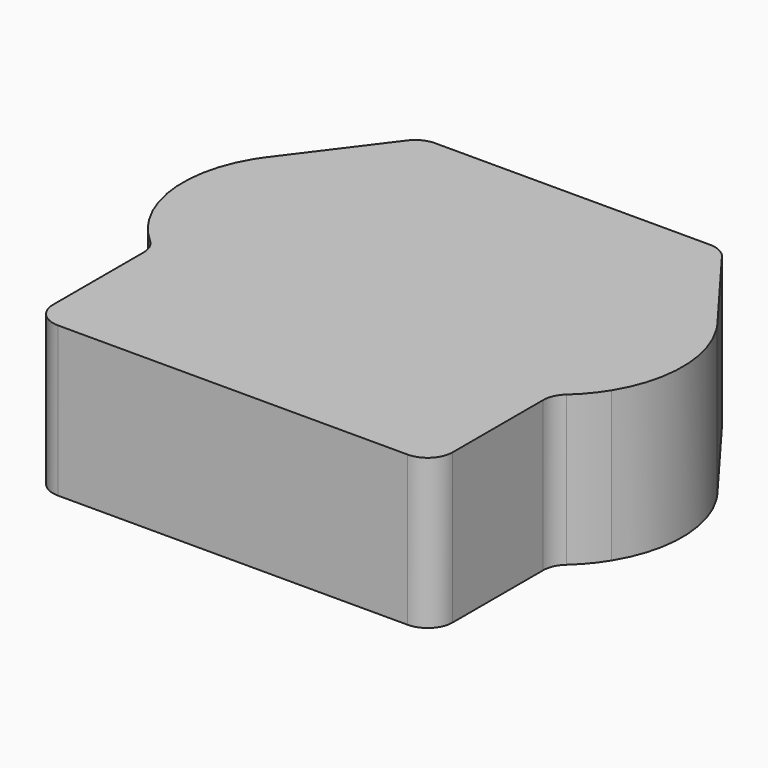
from build123d import *

# Parameters (mm, degrees)
F1_DEPTH = 38.1
F2_R     = 6.35


with BuildPart() as f1:
    # F0 (on Top) → F1 (new body)
    with BuildSketch(Plane.XY):
        Polygon((-31.75, 47.625), (0, 47.625), (0, 60.325), (-38.1, 60.325), (-47.625, 47.625), align=None)
        Polygon((0, 47.625), (31.75, 47.625), (47.625, 47.625), (38.1, 60.325), (0, 60.325), align=None)
        with BuildLine():
            ThreePointArc((-57.15, 34.925), (-45.9490316571, 44.2730633142), (-31.75, 47.625))
            Line((-31.75, 47.625), (-47.625, 47.625))
            Line((-47.625, 47.625), (-57.15, 34.925))
        make_face()
        with BuildLine():
            Line((0, 34.925), (0, 47.625))
            Line((0, 47.625), (-31.75, 47.625))
            ThreePointArc((-31.75, 47.625), (-45.9490316571, 44.2730633142), (-57.15, 34.925))
            Line((-57.15, 34.925), (0, 34.925))
        make_face()
        with BuildLine():
            ThreePointArc((57.15, 34.925), (45.9490316571, 44.2730633142), (31.75, 47.625))
            Line((31.75, 47.625), (0, 47.625))
            Line((0, 47.625), (0, 34.925))
            Line((0, 34.925), (57.15, 34.925))
        make_face()
        with BuildLine():
            Line((47.625, 47.625), (31.75, 47.625))
            ThreePointArc((31.75, 47.625), (45.9490316571, 44.2730633142), (57.15, 34.925))
            Line((57.15, 34.925), (47.625, 47.625))
        make_face()
        with BuildLine():
            ThreePointArc((58.801, 32.4974516543), (58.0035730519, 33.7303185916), (57.15, 34.925))
            Line((57.15, 34.925), (0, 34.925))
            Line((0, 34.925), (-57.15, 34.925))
            ThreePointArc((-57.15, 34.925), (-58.0035730519, 33.7303185916), (-58.801, 32.4974516543))
            Line((-58.801, 32.4974516543), (-58.801, -0.7474516543))
            ThreePointArc((-58.801, -0.7474516543), (-55.2145879783, -5.513679506), (-50.8, -9.525))
            Line((-50.8, -9.525), (-50.8, -47.625))
            Line((-50.8, -47.625), (0, -47.625))
            Line((0, -47.625), (50.8, -47.625))
            Line((50.8, -47.625), (50.8, -9.525))
            ThreePointArc((50.8, -9.525), (55.2145879783, -5.513679506), (58.801, -0.7474516543))
            Line((58.801, -0.7474516543), (58.801, 32.4974516543))
        make_face()
        with BuildLine():
            ThreePointArc((58.801, -0.7474516543), (63.5, 15.875), (58.801, 32.4974516543))
            Line((58.801, 32.4974516543), (58.801, -0.7474516543))
        make_face()
        with BuildLine():
            Line((-58.801, -0.7474516543), (-58.801, 32.4974516543))
            ThreePointArc((-58.801, 32.4974516543), (-63.5, 15.875), (-58.801, -0.7474516543))
        make_face()
    extrude(amount=F1_DEPTH)

    # F2
    f2_edges = [f1.edges().sort_by_distance(p)[0] for p in [
        (-50.8, -47.625, 19.05),
        (50.8, -47.625, 19.05),
        (50.8, -9.525, 19.05),
        (-50.8, -9.525, 19.05),
        (-38.1, 60.325, 19.05),
        (38.1, 60.325, 19.05),
    ]]
    fillet(f2_edges, radius=F2_R)


solid = f1.part
